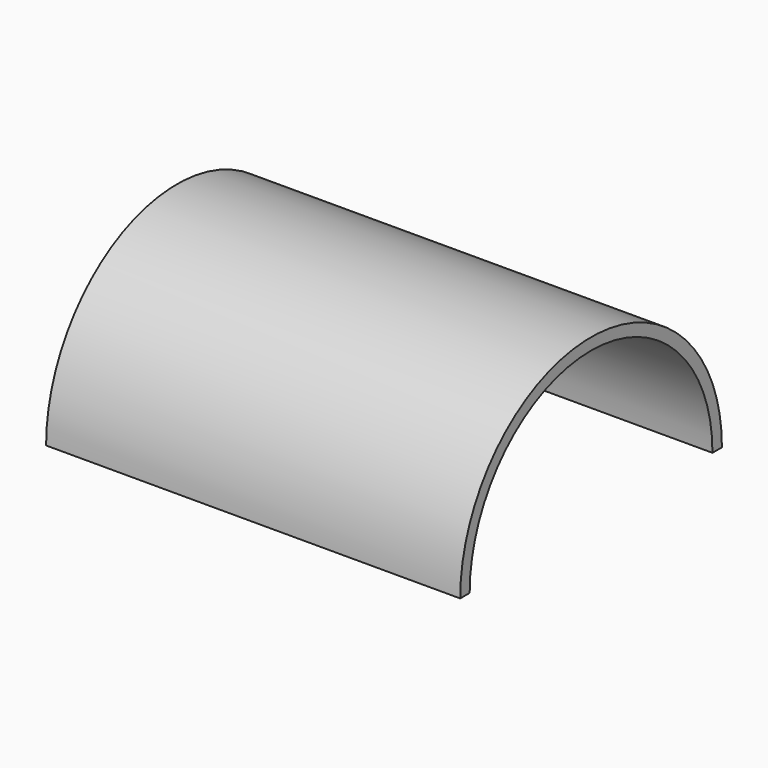
from build123d import *

# Parameters (mm, degrees)
F0_R     = 13.825
F0_R_2   = 12.825
F1_DEPTH = 17.5
F2_W     = 50
F2_H     = 20
F3_DEPTH = 25


with BuildPart() as f1:
    # F0 (on Right) → F1 (new body, symmetric)
    with BuildSketch(Plane.YZ):
        Circle(F0_R)
        Circle(F0_R_2, mode=Mode.SUBTRACT)
    extrude(amount=F1_DEPTH, both=True)

    # F2 (on Right) → F3 (cut, symmetric)
    with BuildSketch(Plane.YZ):
        with Locations((0, -10)):
            Rectangle(F2_W, F2_H)
    extrude(amount=F3_DEPTH, both=True, mode=Mode.SUBTRACT)


solid = f1.part
